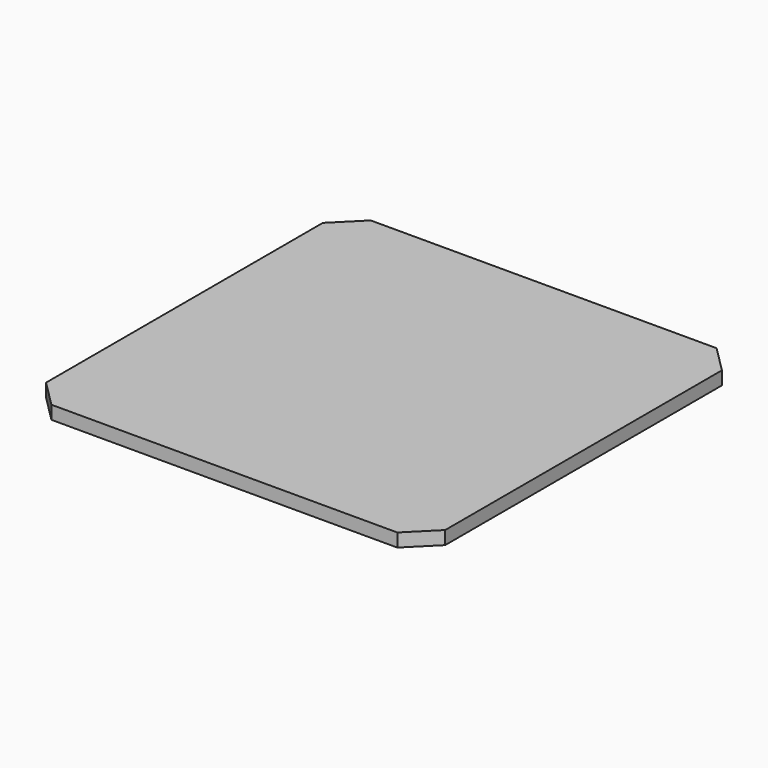
from build123d import *

# Parameters (mm, degrees)
F0_W     = 76.2
F0_H     = 76.2
F1_DEPTH = 2.54
F3_W     = 76.2
F3_H     = 76.2
F4_DEPTH = 2.54
F5_SIZE  = 5.08


with BuildPart() as f1:
    # F0 (on Top) → F1 (new body)
    with BuildSketch(Plane.XY):
        with Locations((-53.6030647397, 0.9952480853)):
            Rectangle(F0_W, F0_H)
    extrude(amount=F1_DEPTH)


with BuildPart() as f4:
    # F3 (on Top) → F4 (new body)
    with BuildSketch(Plane.XY):
        Rectangle(F3_W, F3_H)
    extrude(amount=F4_DEPTH)

    # F5
    f5_edges = [f4.edges().sort_by_distance(p)[0] for p in [
        (-38.1, -38.1, 1.27),
        (-38.1, 38.1, 1.27),
        (38.1, 38.1, 1.27),
        (38.1, -38.1, 1.27),
    ]]
    chamfer(f5_edges, length=F5_SIZE)


solid = f4.part
